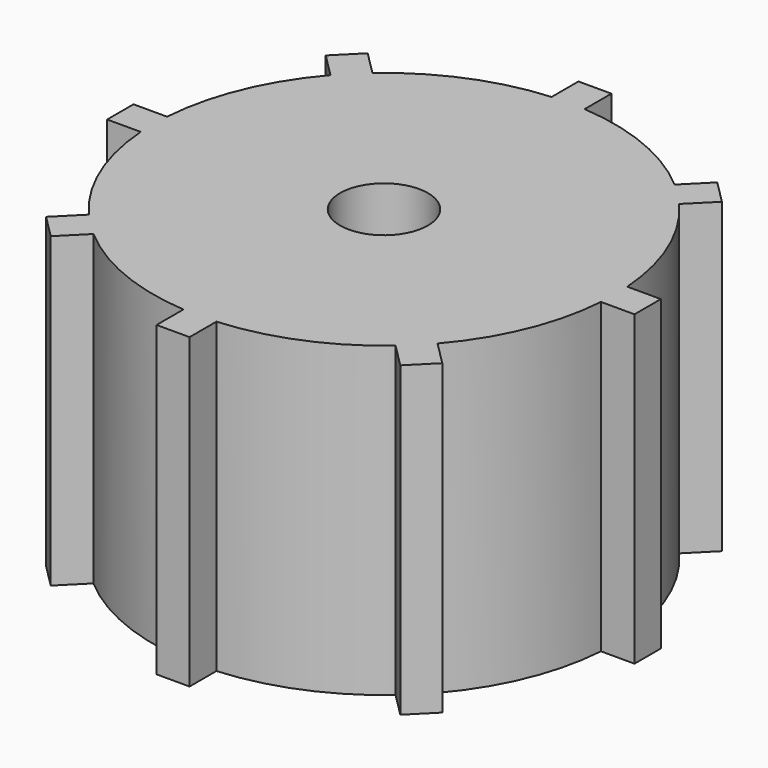
from build123d import *

# Parameters (mm, degrees)
CYLINDER057_R     = 2
CYLINDER057_DEPTH = 13
CYLINDER059_R     = 3.25
CYLINDER059_DEPTH = 2.6
BOX019_W          = 6
BOX019_H          = 1.5
BOX019_DEPTH      = 14
ARRAY004_COUNT    = 8
CYLINDER055_R     = 10.5
CYLINDER055_DEPTH = 14


with BuildPart() as cylinder052:
    # Cylinder057 → Cylinder057 (new body)
    with BuildSketch(Plane.XY.offset(3.6)):
        Circle(CYLINDER057_R)
    extrude(amount=CYLINDER057_DEPTH)


with BuildPart() as cylinder054:
    # Cylinder059 → Cylinder059 (new body)
    with BuildSketch(Plane.XY.offset(1)):
        Circle(CYLINDER059_R)
    extrude(amount=CYLINDER059_DEPTH)


with BuildPart() as array004:
    # Box019 → Box019 (new body)
    with BuildSketch(Plane(origin=(6, -0.75, 0), x_dir=(1, 0, 0), z_dir=(0, 0, 1))):
        with Locations((3, 0.75)):
            Rectangle(BOX019_W, BOX019_H)
    extrude(amount=BOX019_DEPTH)

    # Array004: Array004 ×8 about axis
    array004_axis = Axis((0, 0, 0), (0, 0, 1))


with BuildPart() as array004_1:
    add(array004.part)
    for i in range(1, ARRAY004_COUNT):
        add(array004.part.rotate(array004_axis, i * 360 / ARRAY004_COUNT))


with BuildPart() as obj1:
    # Cylinder055 → Cylinder055 (new body)
    with BuildSketch(Plane.XY):
        Circle(CYLINDER055_R)
    extrude(amount=CYLINDER055_DEPTH)

    # Fusion021: union Array004
    add(array004_1.part)


with BuildPart() as obj1_1:
    # Fusion021 placement: moved
    add(obj1.part.moved(Location((0, 0, 1))))

    # Cut043: cut Cylinder054
    add(cylinder054.part, mode=Mode.SUBTRACT)

    # Cut044: cut Cylinder052
    add(cylinder052.part, mode=Mode.SUBTRACT)


solid = obj1_1.part
